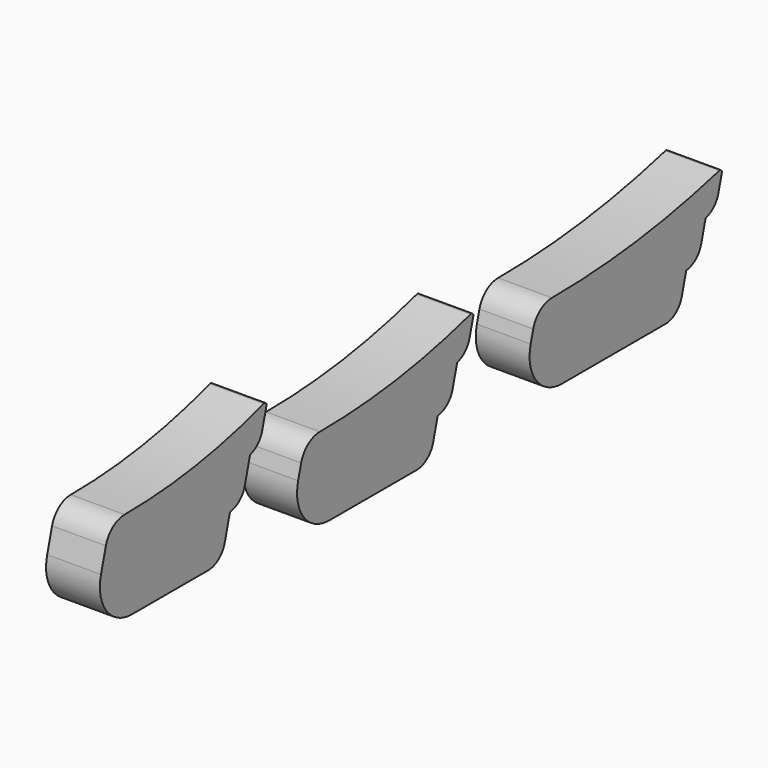
from build123d import *

# Parameters (mm, degrees)
F1_DEPTH = 12.7
F3_DEPTH = 25.4
F5_DEPTH = 25.4


with BuildPart() as f1:
    # F0 (on Right) → F1 (new body, symmetric)
    with BuildSketch(Plane.YZ):
        with BuildLine():
            ThreePointArc((-25.068111, 20.887089), (-32.026254, 18.525117), (-36.108643, 12.41539))
            Line((-36.108643, 12.41539), (-38.994955, 1.64353))
            ThreePointArc((-38.994955, 1.64353), (-35.707449, -14.883878), (-20.594068, -22.336973))
            Line((-20.594068, -22.336973), (24.211884, -22.336973))
            ThreePointArc((24.211884, -22.336973), (30.3969, -20.237443), (34.02569, -14.806575))
            Line((34.02569, -14.806575), (37.10102, -3.329287))
            ThreePointArc((37.10102, -3.329287), (42.652283, -0.956027), (45.876911, 4.147957))
            Line((45.876911, 4.147957), (48.952241, 15.625244))
            ThreePointArc((48.952241, 15.625244), (53.510031, 18.254352), (56.141472, 22.810794))
            Line((56.141472, 22.810794), (58.616516, 32.047784))
            ThreePointArc((58.616516, 32.047784), (58.267273, 33.294593), (57.005946, 33.587089))
            ThreePointArc((57.005946, 33.587089), (16.457305, 24.08087), (-25.068111, 20.887089))
        make_face()
    extrude(amount=F1_DEPTH, both=True)


with BuildPart() as f3:
    # F2 (on Right) → F3 (new body)
    with BuildSketch(Plane.YZ):
        with BuildLine():
            ThreePointArc((-36.327032, 19.05), (-43.285175, 16.688029), (-47.367564, 10.578302))
            Line((-47.367564, 10.578302), (-48.880887, 4.930503))
            ThreePointArc((-48.880887, 4.930503), (-45.593381, -11.596905), (-30.48, -19.05))
            Line((-30.48, -19.05), (30.48, -19.05))
            ThreePointArc((30.48, -19.05), (36.665016, -16.95047), (40.293806, -11.519601))
            Line((40.293806, -11.519601), (42.889938, -1.830707))
            ThreePointArc((42.889938, -1.830707), (48.49103, 0.524264), (51.746603, 5.654506))
            Line((51.746603, 5.654506), (54.342734, 15.3434))
            ThreePointArc((54.342734, 15.3434), (59.117511, 17.933999), (61.87508, 22.614331))
            Line((61.87508, 22.614331), (63.905693, 30.192682))
            ThreePointArc((63.905693, 30.192682), (63.579603, 31.41679), (62.357413, 31.75))
            ThreePointArc((62.357413, 31.75), (13.422113, 22.238038), (-36.327032, 19.05))
        make_face()
    extrude(amount=F3_DEPTH)


with BuildPart() as f5:
    # F4 (on Right) → F5 (new body)
    with BuildSketch(Plane.YZ):
        with BuildLine():
            ThreePointArc((-30.352264, 19.050918), (-37.310407, 16.688946), (-41.392796, 10.579219))
            Line((-41.392796, 10.579219), (-43.178601, 3.914503))
            ThreePointArc((-43.178601, 3.914503), (-39.891095, -12.612905), (-24.777714, -20.066))
            Line((-24.777714, -20.066), (26.678476, -20.066))
            ThreePointArc((26.678476, -20.066), (32.863492, -17.96647), (36.492282, -12.535601))
            Line((36.492282, -12.535601), (39.159048, -2.583097))
            ThreePointArc((39.159048, -2.583097), (44.725333, -0.215294), (47.959277, 4.896617))
            Line((47.959277, 4.896617), (50.639624, 14.899806))
            ThreePointArc((50.639624, 14.899806), (55.288691, 17.513884), (57.972985, 22.122767))
            Line((57.972985, 22.122767), (60.138079, 30.203009))
            ThreePointArc((60.138079, 30.203009), (59.799461, 31.439544), (58.555784, 31.750918))
            ThreePointArc((58.555784, 31.750918), (14.553001, 22.241951), (-30.352264, 19.050918))
        make_face()
    extrude(amount=F5_DEPTH)


with BuildPart() as f1_1:
    # F6: moved
    add(f1.part.moved(Location((0, -104.62713, 0))))


with BuildPart() as f3_1:
    # F7: moved
    add(f3.part.moved(Location((0, 142.88631, 0))))


solid = Compound([f5.part, f1_1.part, f3_1.part])
